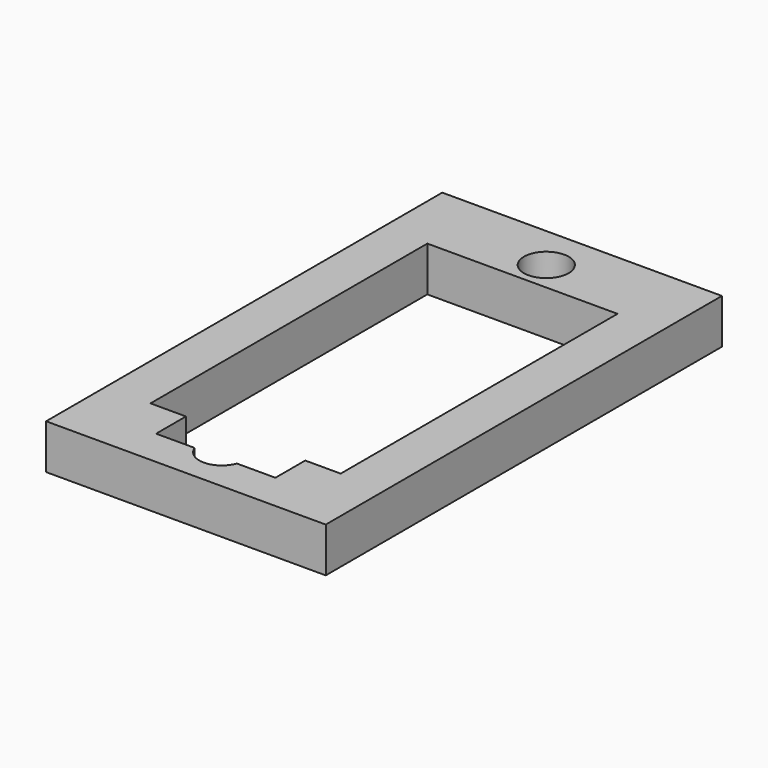
from build123d import *

# Parameters (mm, degrees)
F0_W     = 18.75
F0_H     = 33.2
F0_R     = 1.5
F1_DEPTH = 3


with BuildPart() as f1:
    # F0 (on Top) → F1 (new body)
    with BuildSketch(Plane.XY):
        Rectangle(F0_W, F0_H)
        with BuildLine():
            Line((-6.375, -11.6), (-6.375, 11.6))
            Line((-6.375, 11.6), (6.375, 11.6))
            Line((6.375, 11.6), (6.375, -11.6))
            Line((6.375, -11.6), (4, -11.6))
            Line((4, -11.6), (4, -14.1))
            Line((4, -14.1), (1.414214, -14.1))
            ThreePointArc((1.414214, -14.1), (0, -15.1), (-1.414214, -14.1))
            Line((-1.414214, -14.1), (-4, -14.1))
            Line((-4, -14.1), (-4, -11.6))
            Line((-4, -11.6), (-6.375, -11.6))
        make_face(mode=Mode.SUBTRACT)
        with Locations((0, 13.6)):
            Circle(F0_R, mode=Mode.SUBTRACT)
    extrude(amount=F1_DEPTH)


solid = f1.part
